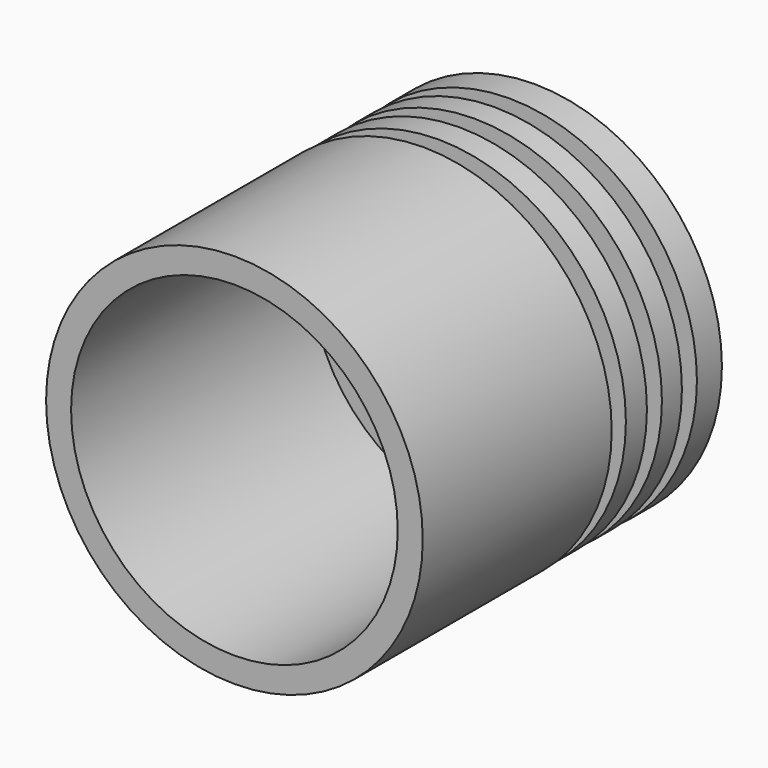
from build123d import *

# Parameters (mm, degrees)
F0_W     = 13.25
F0_H     = 1.5
F2_DEPTH = 22.25


with BuildPart() as f1:
    # F0 (on Top) → F1 (revolve)
    with BuildSketch(Plane.XY):
        Polygon((-17.1468311846, 9.3249371275), (-17.1468311846, 16.6790741712), (-20.6468311846, 16.6790741712), (-20.6468311846, 17.3790741712), (-21.6468311846, 17.3790741712), (-21.6468311846, 16.6790741712), (-25.8468311846, 16.6790741712), (-32.2133810192, 16.6790741712), (-32.2133810192, 9.1332341712), (-32.2133810192, 1.5332341712), (-19.1468311846, 1.5332341712), (-19.1468311846, -0.2167658288), (-17.1468311846, -0.2167658288), (-17.1468311846, 4.5190741712), align=None)
        Polygon((-17.1468311846, 18.6790741712), (-18.9633810192, 18.6790741712), (-32.2133810192, 18.6790741712), (-32.2133810192, 16.6790741712), (-25.8468311846, 16.6790741712), (-21.6468311846, 16.6790741712), (-21.6468311846, 17.3790741712), (-20.6468311846, 17.3790741712), (-20.6468311846, 16.6790741712), (-17.1468311846, 16.6790741712), align=None)
        Polygon((-17.2133810192, 20.1790741712), (-17.2133810192, 22.2832329303), (-18.9633810192, 22.2832329303), (-32.2133810192, 22.2832329303), (-32.2133810192, 20.1790741712), (-18.9633810192, 20.1790741712), align=None)
        with Locations((-25.5883810192, 19.4290741712)):
            Rectangle(F0_W, F0_H)
        with Locations((-25.5883810192, 23.0332329303)):
            Rectangle(F0_W, F0_H)
        Polygon((-32.2133810192, 23.7832329303), (-18.9633810192, 23.7832329303), (-17.2133810192, 23.7832329303), (-17.2133810192, 25.7832329303), (-18.9633810192, 25.7832329303), (-32.2133810192, 25.7832329303), align=None)
        with Locations((-25.5883810192, 26.5332329303)):
            Rectangle(F0_W, F0_H)
        Polygon((-32.2133810192, 29.7832329303), (-32.2133810192, 27.2832329303), (-18.9633810192, 27.2832329303), (-17.2133810192, 27.2832329303), (-17.2133810192, 29.7832329303), align=None)
    revolve(axis=Axis((-32.2133810192, 15.6582335507, 0), (0, 1, 0)))

    # F2 (cut): a face of the model
    f2_faces = [f1.faces().sort_by_distance(p)[0] for p in [
        (-32.2133810192, 1.5332341712, 0),
    ]]
    extrude(f2_faces, amount=-F2_DEPTH, mode=Mode.SUBTRACT)


solid = f1.part
